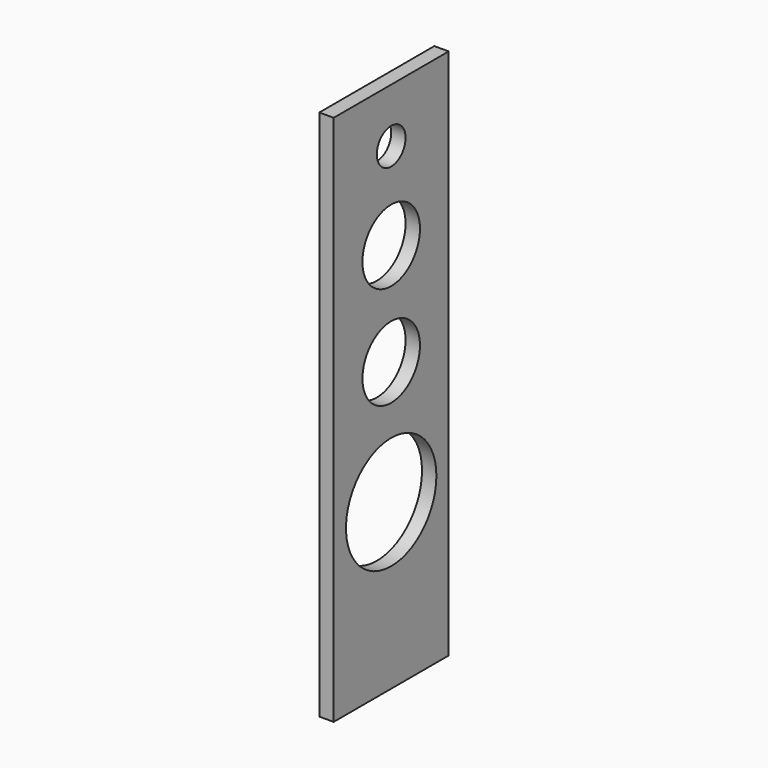
from build123d import *

# Parameters (mm, degrees)
F0_W     = 28
F0_H     = 280
F1_DEPTH = 1035.5
F2_R     = 110
F2_R_2   = 70
F2_R_3   = 35
F3_DEPTH = 50


with BuildPart() as f1:
    # F0 (on Top) → F1 (new body)
    with BuildSketch(Plane.XY):
        Rectangle(F0_W, F0_H)
    extrude(amount=F1_DEPTH)

    # F2 (on Right) → F3 (cut, symmetric)
    with BuildSketch(Plane.YZ):
        with Locations((0, 320)):
            Circle(F2_R)
        with Locations((0, 560)):
            Circle(F2_R_2)
        with Locations((0, 760)):
            Circle(F2_R_2)
        with Locations((0, 930)):
            Circle(F2_R_3)
    extrude(amount=F3_DEPTH, both=True, mode=Mode.SUBTRACT)


solid = f1.part
